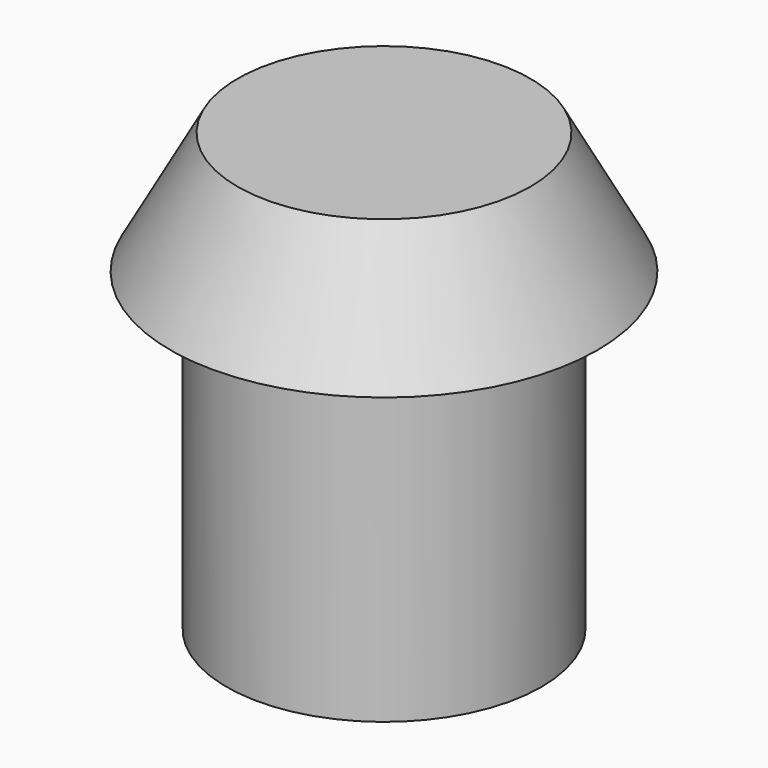
from build123d import *

# Parameters (mm, degrees)
CYLINDER_R     = 6.45
CYLINDER_DEPTH = 12.9


with BuildPart() as cone:
    # Cone → Cone (revolve)
    with BuildSketch(Plane.XZ):
        Polygon((0, 0), (8.75, 0), (6, 5), (0, 5), align=None)
    revolve(axis=Axis((0, 0, 0), (0, 0, 1)))


with BuildPart() as fusion:
    # Cylinder → Cylinder (new body)
    with BuildSketch(Plane.XY.offset(-12.9)):
        Circle(CYLINDER_R)
    extrude(amount=CYLINDER_DEPTH)

    # Fusion: union Cone
    add(cone.part)


with BuildPart() as fusion_1:
    # Fusion placement: moved
    add(fusion.part.moved(Location((14, 50, 13))))


solid = fusion_1.part
